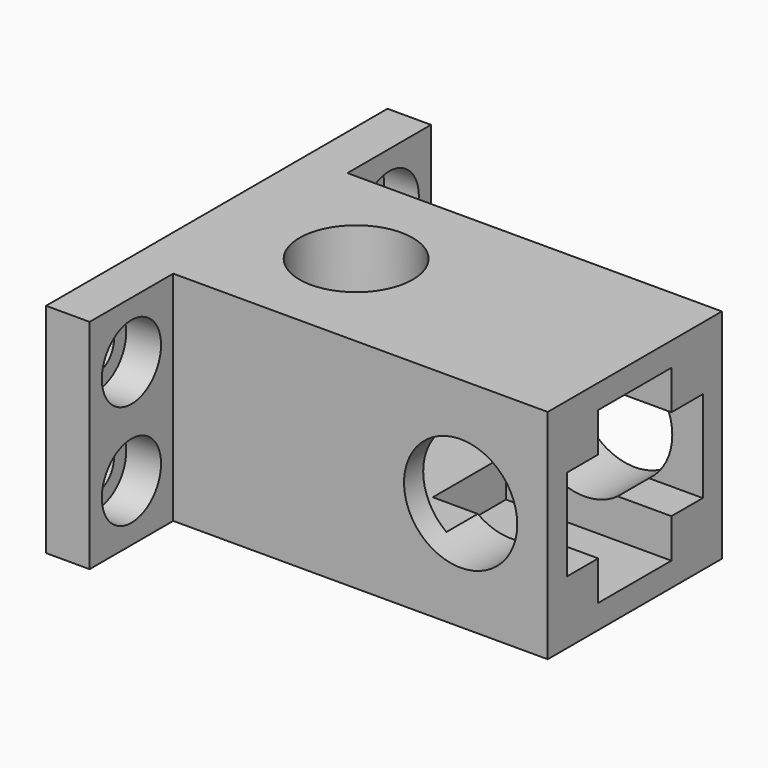
from build123d import *

# Parameters (mm, degrees)
F0_W            = 48
F0_H            = 25
F1_DEPTH        = 12.5
F2_W            = 19.5
F2_H            = 10.5
F3_DEPTH        = 44
F4_R            = 6.5
F5_DEPTH        = 25.001
F6_W            = 10.5
F6_H            = 19.5
F7_DEPTH        = 19
F8_R            = 6.5
F9_DEPTH        = 25.001
F10_W           = 12
F10_H           = 25
F11_DEPTH       = 5
F13_D           = 5
F13_CBORE_D     = 8.5
F13_CBORE_DEPTH = 4


with BuildPart() as f1:
    # F0 (on Top) → F1 (new body, symmetric)
    with BuildSketch(Plane.XY):
        with Locations((8, 0)):
            Rectangle(F0_W, F0_H)
    extrude(amount=F1_DEPTH, both=True)

    # F2 (on face) → F3 (cut)
    with BuildSketch(Plane.YZ.offset(32)):
        Rectangle(F2_W, F2_H)
    extrude(amount=-F3_DEPTH, mode=Mode.SUBTRACT)

    # F4 (on face) → F5 (cut, through all)
    with BuildSketch(Plane(origin=(0, 0, -12.5), x_dir=(1, 0, 0), z_dir=(0, 0, -1))):
        Circle(F4_R)
    extrude(amount=-F5_DEPTH, mode=Mode.SUBTRACT)

    # F6 (on face) → F7 (cut)
    with BuildSketch(Plane.YZ.offset(32)):
        Rectangle(F6_W, F6_H)
    extrude(amount=-F7_DEPTH, mode=Mode.SUBTRACT)

    # F8 (on face) → F9 (cut, through all)
    with BuildSketch(Plane.XZ.offset(12.5)):
        with Locations((22, 0)):
            Circle(F8_R)
    extrude(amount=-F9_DEPTH, mode=Mode.SUBTRACT)

    # F10 (on face) → F11 (join)
    with BuildSketch(Plane(origin=(-16, 0, 0), x_dir=(0, -1, 0), z_dir=(-1, 0, 0))):
        with Locations((-18.5, 0)):
            Rectangle(F10_W, F10_H)
        with Locations((18.5, 0)):
            Rectangle(F10_W, F10_H)
    extrude(amount=-F11_DEPTH)

    # F13 (through all)
    with Locations(Plane.YZ.offset(-11)):
        with Locations((-18.5, 6), (-18.5, -6), (18.5, 6), (18.5, -6)):
            CounterBoreHole(F13_D / 2, F13_CBORE_D / 2, F13_CBORE_DEPTH)


solid = f1.part
